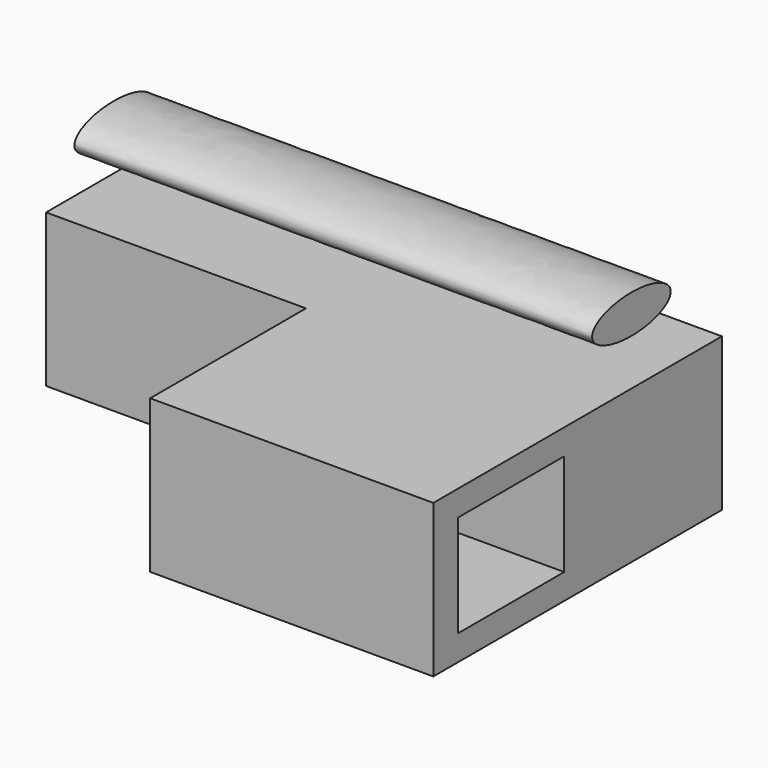
from build123d import *

# Parameters (mm, degrees)
F1_DEPTH = 30
F2_W     = 26
F2_H     = 20
F3_DEPTH = 55.584419
F5_DEPTH = 101.63239


with BuildPart() as f1:
    # F0 (on Top) → F1 (new body)
    with BuildSketch(Plane.XY):
        Polygon((47.702593, 32.588766), (-58.88501, 32.588766), (-58.88501, 0), (-7.880825, 0), (-7.880825, -38.217835), (47.702593, -38.217835), align=None)
    extrude(amount=F1_DEPTH)

    # F2 (on face) → F3 (cut, through all)
    with BuildSketch(Plane(origin=(-7.880825, 0, 0), x_dir=(0, -1, 0), z_dir=(-1, 0, 0))):
        with Locations((19.108918, 15)):
            Rectangle(F2_W, F2_H)
    extrude(amount=-F3_DEPTH, mode=Mode.SUBTRACT)


with BuildPart() as f5:
    # F4 (on face) → F5 (new body)
    with BuildSketch(Plane(origin=(-58.88501, 0, 0), x_dir=(0, -1, 0), z_dir=(-1, 0, 0))):
        with BuildLine():
            add(Edge.make_bspline(
                [(-6.940764, 38.726609), (-6.940764, 45.260255), (-21.400879, 41.993432), (-35.860993, 38.726609), (-21.400879, 35.459786), (-6.940764, 32.192963), (-6.940764, 38.726609)],
                knots=[0, 0, 0, 2.094395, 2.094395, 4.18879, 4.18879, 6.283185, 6.283185, 6.283185], degree=2, weights=[1, 0.5, 1, 0.5, 1, 0.5, 1]))
        make_face()
    extrude(amount=-F5_DEPTH)


solid = Compound([f1.part, f5.part])
